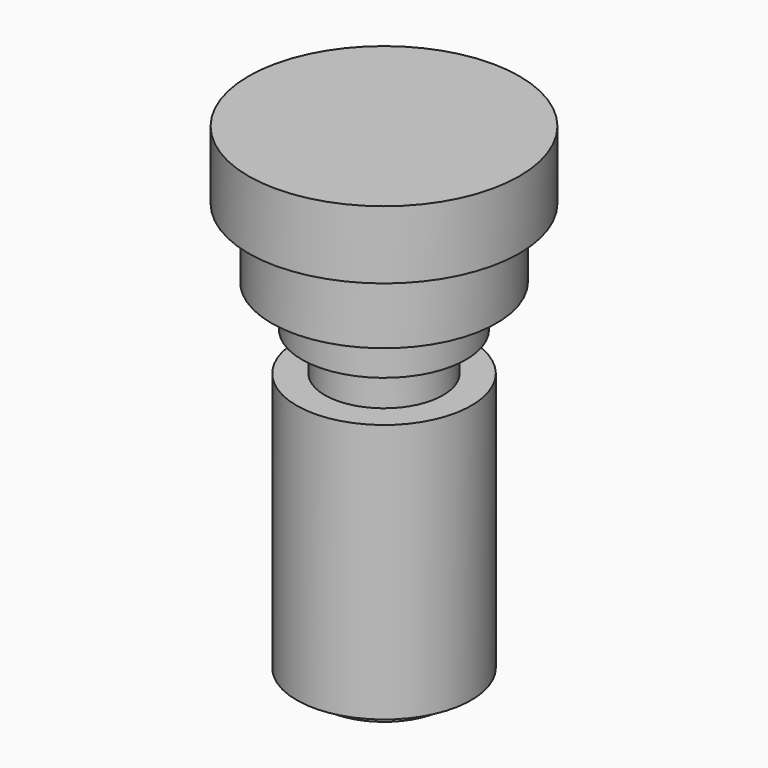
from build123d import *

# Parameters (mm, degrees)
F0_W   = 16.2657573819
F0_H   = 3.7642940879
F0_W_2 = 15.1902455837
F0_H_2 = 9.9756410345


with BuildPart() as f1:
    # F0 (on Front) → F1 (revolve)
    with BuildSketch(Plane.XZ):
        Polygon((0, 38.4767018259), (0, 55.9537671506), (-34.8183326423, 55.9537671506), (-34.8183326423, 38.4767018259), (-28.9030186832, 38.4767018259), align=None)
        Polygon((0, 20.7307580858), (0, 38.4767018259), (-28.9030186832, 38.4767018259), (-28.9030186832, 20.7307580858), (-21.1055595428, 20.7307580858), align=None)
        with Locations((-8.132878691, -68.5367174447)):
            Rectangle(F0_W, F0_H)
        Polygon((0, -66.6545704007), (0, 0), (-15.1902455837, 0), (-22.4499497563, 0), (-22.4499497563, -66.6545704007), (-16.2657573819, -66.6545704007), align=None)
        with Locations((-7.5951227918, 4.9878205173)):
            Rectangle(F0_W_2, F0_H_2)
        Polygon((0, 9.9756410345), (0, 20.7307580858), (-21.1055595428, 20.7307580858), (-21.1055595428, 9.9756410345), (-15.1902455837, 9.9756410345), align=None)
    revolve(axis=Axis((0, 0, -74.1831511259), (0, 0, -1)))


solid = f1.part
